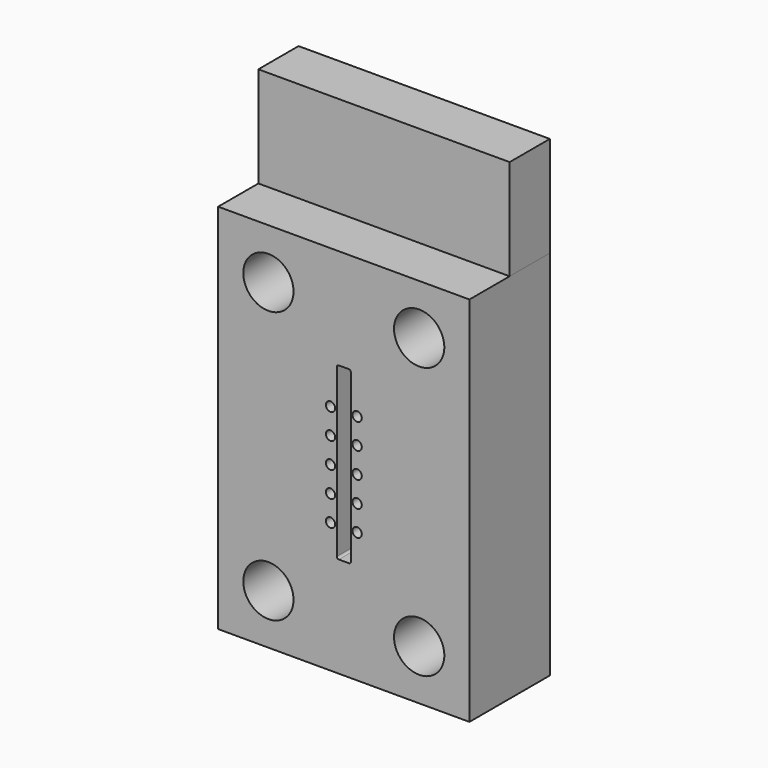
from build123d import *

# Parameters (mm, degrees)
F0_W     = 25
F0_H     = 37
F1_DEPTH = 10
F2_DEPTH = 6
F3_W     = 25
F3_H     = 10
F4_DEPTH = 5
F5_R     = 0.465
F6_DEPTH = 6.001
F7_R     = 2.5
F8_DEPTH = 10.001


with BuildPart() as f1:
    # F0 (on Front) → F1 (new body)
    with BuildSketch(Plane.XZ):
        with Locations((-12.5, 18.5)):
            Rectangle(F0_W, F0_H)
        with BuildLine():
            ThreePointArc((-15.5, 26), (-16.207107, 27.707107), (-14.5, 27))
            Line((-14.5, 27), (-13, 27))
            Line((-13, 27), (-12, 27))
            Line((-12, 27), (-10.5, 27))
            ThreePointArc((-10.5, 27), (-8.792893, 27.707107), (-9.5, 26))
            Line((-9.5, 26), (-9.5, 11))
            ThreePointArc((-9.5, 11), (-8.792893, 9.292893), (-10.5, 10))
            Line((-10.5, 10), (-12, 10))
            Line((-12, 10), (-13, 10))
            Line((-13, 10), (-14.5, 10))
            ThreePointArc((-14.5, 10), (-16.207107, 9.292893), (-15.5, 11))
            Line((-15.5, 11), (-15.5, 26))
        make_face(mode=Mode.SUBTRACT)
    extrude(amount=-F1_DEPTH)

    # F0 (on Front) → F2 (join)
    with BuildSketch(Plane.XZ):
        with BuildLine():
            Line((-13, 27), (-14.5, 27))
            ThreePointArc((-14.5, 27), (-16.207107, 27.707107), (-15.5, 26))
            Line((-15.5, 26), (-15.5, 11))
            ThreePointArc((-15.5, 11), (-16.207107, 9.292893), (-14.5, 10))
            Line((-14.5, 10), (-13, 10))
            ThreePointArc((-13, 10), (-13.141421, 10.058579), (-13.2, 10.2))
            Line((-13.2, 10.2), (-13.2, 26.8))
            ThreePointArc((-13.2, 26.8), (-13.141421, 26.941421), (-13, 27))
        make_face()
        with BuildLine():
            Line((-10.5, 27), (-12, 27))
            ThreePointArc((-12, 27), (-11.858579, 26.941421), (-11.8, 26.8))
            Line((-11.8, 26.8), (-11.8, 10.2))
            ThreePointArc((-11.8, 10.2), (-11.858579, 10.058579), (-12, 10))
            Line((-12, 10), (-10.5, 10))
            ThreePointArc((-10.5, 10), (-8.792893, 9.292893), (-9.5, 11))
            Line((-9.5, 11), (-9.5, 26))
            ThreePointArc((-9.5, 26), (-8.792893, 27.707107), (-10.5, 27))
        make_face()
    extrude(amount=-F2_DEPTH)

    # F5 (on face) → F6 (cut, through all)
    with BuildSketch(Plane(origin=(0, 6, 0), x_dir=(-1, 0, 0), z_dir=(0, 1, 0))):
        with Locations((13.825, 12.965)):
            Circle(F5_R)
        with Locations((13.825, 15.505)):
            Circle(F5_R)
        with Locations((13.825, 18.045)):
            Circle(F5_R)
        with Locations((13.825, 20.585)):
            Circle(F5_R)
        with Locations((13.825, 23.125)):
            Circle(F5_R)
        with Locations((11.175, 23.125)):
            Circle(F5_R)
        with Locations((11.175, 20.585)):
            Circle(F5_R)
        with Locations((11.175, 18.045)):
            Circle(F5_R)
        with Locations((11.175, 15.505)):
            Circle(F5_R)
        with Locations((11.175, 12.965)):
            Circle(F5_R)
    extrude(amount=-F6_DEPTH, mode=Mode.SUBTRACT)

    # F7 (on face) → F8 (cut, through all)
    with BuildSketch(Plane(origin=(0, 10, 0), x_dir=(-1, 0, 0), z_dir=(0, 1, 0))):
        with Locations((5, 32)):
            Circle(F7_R)
        with Locations((20, 32)):
            Circle(F7_R)
        with Locations((20, 5)):
            Circle(F7_R)
        with Locations((5, 5)):
            Circle(F7_R)
    extrude(amount=-F8_DEPTH, mode=Mode.SUBTRACT)


with BuildPart() as f4:
    # F3 (on face) → F4 (new body)
    with BuildSketch(Plane(origin=(0, 10, 0), x_dir=(-1, 0, 0), z_dir=(0, 1, 0))):
        with Locations((12.5, 42)):
            Rectangle(F3_W, F3_H)
    extrude(amount=-F4_DEPTH)


solid = Compound([f1.part, f4.part])
